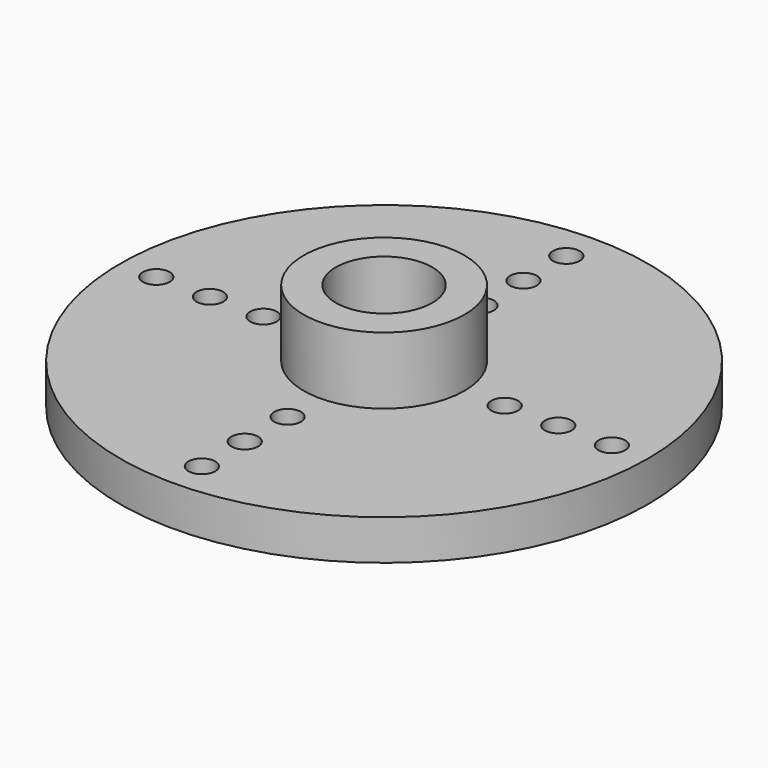
from build123d import *

# Parameters (mm, degrees)
F0_R     = 9.85
F0_R_2   = 0.5
F0_R_3   = 1
F1_DEPTH = 1.5
F2_R     = 3
F2_R_2   = 1.8
F3_DEPTH = 2.5
F4_R     = 1.8
F4_R_2   = 1
F5_DEPTH = 0.5


with BuildPart() as f1:
    # F0 (on Top) → F1 (new body)
    with BuildSketch(Plane.XY):
        Circle(F0_R)
        with Locations((0, -8.5)):
            Circle(F0_R_2, mode=Mode.SUBTRACT)
        with Locations((0, -6.5)):
            Circle(F0_R_2, mode=Mode.SUBTRACT)
        with Locations((0, -4.5)):
            Circle(F0_R_2, mode=Mode.SUBTRACT)
        with Locations((-8.5, 0)):
            Circle(F0_R_2, mode=Mode.SUBTRACT)
        with Locations((-6.5, 0)):
            Circle(F0_R_2, mode=Mode.SUBTRACT)
        with Locations((-4.5, 0)):
            Circle(F0_R_2, mode=Mode.SUBTRACT)
        Circle(F0_R_3, mode=Mode.SUBTRACT)
        with Locations((4.5, 0)):
            Circle(F0_R_2, mode=Mode.SUBTRACT)
        with Locations((0, 4.5)):
            Circle(F0_R_2, mode=Mode.SUBTRACT)
        with Locations((6.5, 0)):
            Circle(F0_R_2, mode=Mode.SUBTRACT)
        with Locations((8.5, 0)):
            Circle(F0_R_2, mode=Mode.SUBTRACT)
        with Locations((0, 6.5)):
            Circle(F0_R_2, mode=Mode.SUBTRACT)
        with Locations((0, 8.5)):
            Circle(F0_R_2, mode=Mode.SUBTRACT)
    extrude(amount=F1_DEPTH)

    # F2 (on face) → F3 (join)
    with BuildSketch(Plane.XY.offset(1.5)):
        Circle(F2_R)
        Circle(F2_R_2, mode=Mode.SUBTRACT)
    extrude(amount=F3_DEPTH)

    # F4 (on face) → F5 (join)
    with BuildSketch(Plane.XY.offset(1.5)):
        Circle(F4_R)
        Circle(F4_R_2, mode=Mode.SUBTRACT)
    extrude(amount=F5_DEPTH)


solid = f1.part
